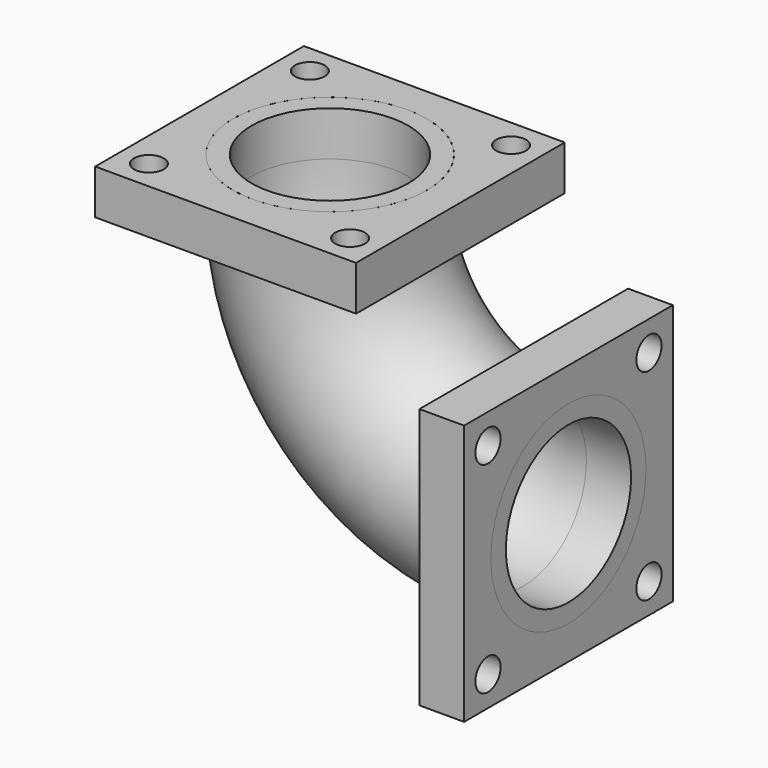
from build123d import *

# Parameters (mm, degrees)
F2_R     = 13
F2_R_2   = 10.5
F1_W     = 35
F1_H     = 35
F1_R     = 2
F1_R_2   = 13
F4_DEPTH = 6
F5_DEPTH = 6
F2_W     = 35
F2_H     = 35
F2_R_3   = 2.1163418651
F6_DEPTH = 6
F7_DEPTH = 6


with BuildPart() as f3:
    # F3: sweep along a path in F0
    with BuildLine(Plane.XZ) as f3_path:
        ThreePointArc((-26, 0), (-18.3847763109, -18.3847763109), (0, -26))
    # F2 (on Right) → F3 (sweep)
    with BuildSketch(Plane.YZ):
        with Locations((0, -26)):
            Circle(F2_R)
        with Locations((0, -26)):
            Circle(F2_R_2, mode=Mode.SUBTRACT)
    sweep(path=f3_path.line)


with BuildPart() as f4:
    # F1 (on Top) → F4 (new body)
    with BuildSketch(Plane.XY):
        with Locations((-26, -7.45e-08)):
            Rectangle(F1_W, F1_H)
        with Locations((-39.500000115, -13.4999998105)):
            Circle(F1_R, mode=Mode.SUBTRACT)
        with Locations((-12.500000115, -13.5000000404)):
            Circle(F1_R, mode=Mode.SUBTRACT)
        with Locations((-39.5, 13.4999999255)):
            Circle(F1_R, mode=Mode.SUBTRACT)
        with Locations((-26, 0)):
            Circle(F1_R_2, mode=Mode.SUBTRACT)
        with Locations((-12.5, 13.4999999255)):
            Circle(F1_R, mode=Mode.SUBTRACT)
    extrude(amount=F4_DEPTH)


with BuildPart() as f5:
    # F5 (new): a face of the model
    f5_faces = [f3.part.faces().sort_by_distance(p)[0] for p in [
        (-26, -12.6323044738, 0),
    ]]
    extrude(f5_faces, amount=F5_DEPTH)


with BuildPart() as f6:
    # F2 (on Right) → F6 (new body)
    with BuildSketch(Plane.YZ):
        with Locations((7.45e-08, -26)):
            Rectangle(F2_W, F2_H)
        with Locations((-13.4999999255, -39.5)):
            Circle(F2_R_3, mode=Mode.SUBTRACT)
        with Locations((13.5000000404, -39.499999885)):
            Circle(F2_R_3, mode=Mode.SUBTRACT)
        with Locations((0, -26)):
            Circle(F2_R, mode=Mode.SUBTRACT)
        with Locations((-13.4999999255, -12.5)):
            Circle(F2_R_3, mode=Mode.SUBTRACT)
        with Locations((13.5000000404, -12.500000115)):
            Circle(F2_R_3, mode=Mode.SUBTRACT)
    extrude(amount=F6_DEPTH)


with BuildPart() as f7:
    # F2 (on Right) → F7 (new body)
    with BuildSketch(Plane.YZ):
        with Locations((0, -26)):
            Circle(F2_R)
        with Locations((0, -26)):
            Circle(F2_R_2, mode=Mode.SUBTRACT)
    extrude(amount=F7_DEPTH)


solid = Compound([f3.part, f4.part, f5.part, f6.part, f7.part])
